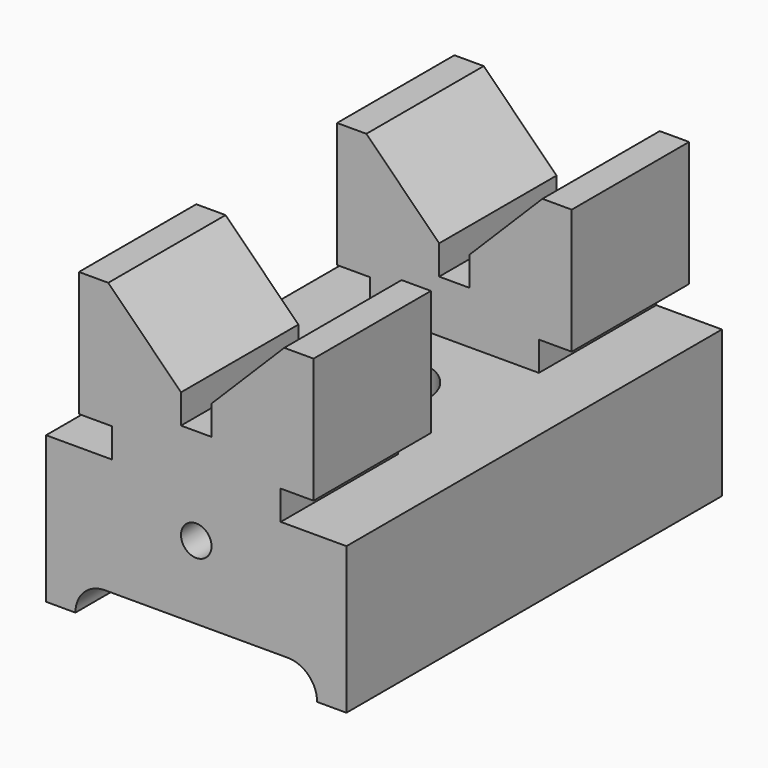
from build123d import *

# Parameters (mm, degrees)
F0_R     = 3.302
F1_DEPTH = 101.6
F2_R     = 3.302
F3_DEPTH = 16.35888
F4_W     = 38.1
F4_H     = 33.4236365795
F4_R     = 4.7625
F5_DEPTH = 58.56755
F6_R     = 9.525
F7_DEPTH = 31.751


with BuildPart() as f1:
    # F0 (on Front) → F1 (new body)
    with BuildSketch(Plane.XZ):
        with BuildLine():
            Line((0, 0), (6.35, 0))
            ThreePointArc((6.35, 0), (8.2098719395, 4.4901280605), (12.7, 6.35))
            Line((12.7, 6.35), (52.324, 6.35))
            ThreePointArc((52.324, 6.35), (56.8141280605, 4.4901280605), (58.674, 0))
            Line((58.674, 0), (65.024, 0))
            Line((65.024, 0), (65.024, 31.75))
            Line((65.024, 31.75), (50.8, 31.75))
            Line((50.8, 31.75), (50.8, 38.1))
            Line((50.8, 38.1), (57.912, 38.1))
            Line((57.912, 38.1), (57.912, 65.1736365795))
            Line((57.912, 65.1736365795), (51.562, 65.1736365795))
            Line((51.562, 65.1736365795), (35.814, 49.4256365795))
            Line((35.814, 49.4256365795), (35.814, 43.0756365795))
            Line((35.814, 43.0756365795), (29.21, 43.0756365795))
            Line((29.21, 43.0756365795), (29.21, 49.4256365795))
            Line((29.21, 49.4256365795), (13.462, 65.1736365795))
            Line((13.462, 65.1736365795), (7.112, 65.1736365795))
            Line((7.112, 65.1736365795), (7.112, 38.1))
            Line((7.112, 38.1), (14.224, 38.1))
            Line((14.224, 38.1), (14.224, 31.75))
            Line((14.224, 31.75), (0, 31.75))
            Line((0, 31.75), (0, 0))
        make_face()
        with Locations((32.512, 22.225)):
            Circle(F0_R, mode=Mode.SUBTRACT)
        with Locations((32.512, 22.225)):
            Circle(F0_R)
    extrude(amount=F1_DEPTH)

    # F2 (on face) → F3 (cut)
    with BuildSketch(Plane.XZ.offset(101.6)):
        with Locations((32.512, 22.225)):
            Circle(F2_R)
    extrude(amount=-F3_DEPTH, mode=Mode.SUBTRACT)

    # F4 (on Right) → F5 (cut)
    with BuildSketch(Plane.YZ):
        with Locations((-50.8, 48.4618182898)):
            Rectangle(F4_W, F4_H)
        with Locations((-50.8, 15.875)):
            Circle(F4_R)
    extrude(amount=F5_DEPTH, mode=Mode.SUBTRACT)

    # F6 (on face) → F7 (cut, through all)
    with BuildSketch(Plane.XY.offset(31.75)):
        with Locations((32.512, -50.8)):
            Circle(F6_R)
    extrude(amount=-F7_DEPTH, mode=Mode.SUBTRACT)


solid = f1.part
